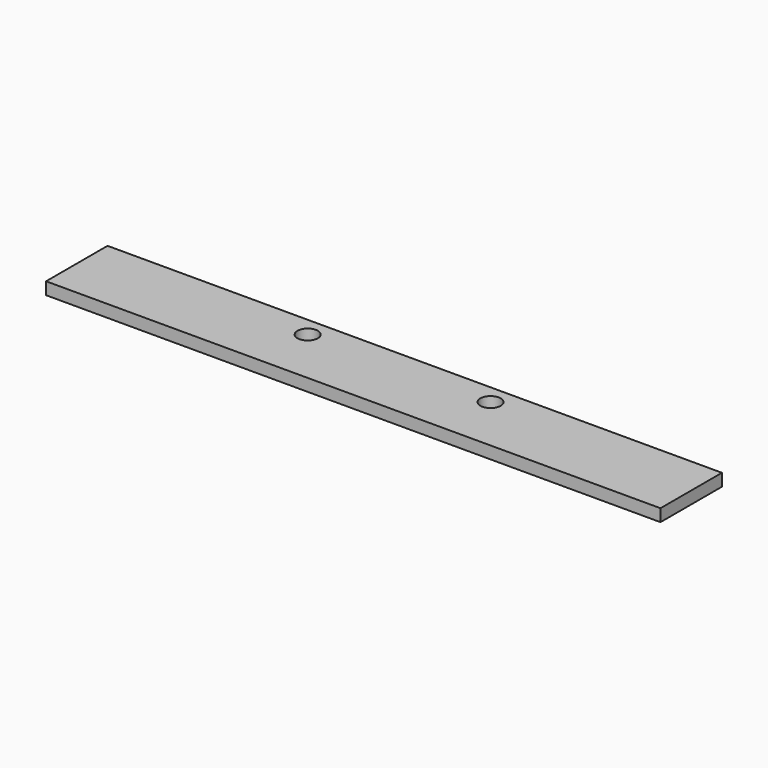
from build123d import *

# Parameters (mm, degrees)
F0_R     = 1.325
F1_DEPTH = 1.6


with BuildPart() as f1:
    # F0 (on Top) → F1 (new body)
    with BuildSketch(Plane.XY):
        Polygon((0, 10), (0, 0), (24.125, 0), (55.875, 0), (80, 0), (80, 10), (55.875, 10), (24.125, 10), align=None)
        with Locations((28.09375, 7.46)):
            Circle(F0_R, mode=Mode.SUBTRACT)
        with BuildLine():
            ThreePointArc((53.23125, 7.46), (51.90625, 6.135), (50.58125, 7.46))
            ThreePointArc((50.58125, 7.46), (51.90625, 8.785), (53.23125, 7.46))
        make_face(mode=Mode.SUBTRACT)
    extrude(amount=F1_DEPTH)


solid = f1.part
